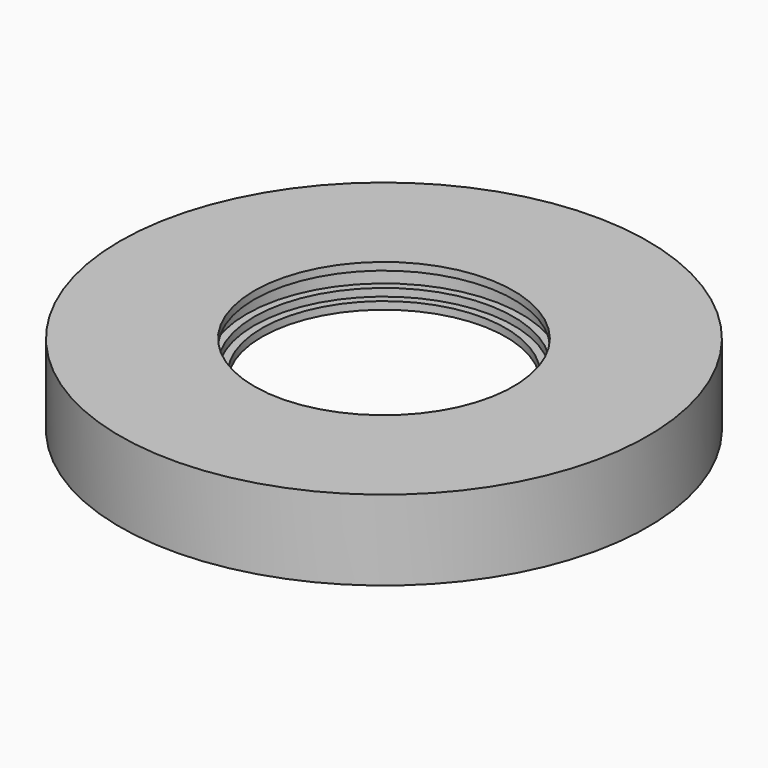
from build123d import *


with BuildPart() as f1:
    # F0 (on Front) → F1 (revolve)
    with BuildSketch(Plane.XZ):
        Polygon((-34, 0), (-32, 0), (-32, 2), (-34, 2), (-34, 4), (-36, 4), (-36, 8), (-34, 8), (-34, 10), (-69.25, 10), (-69.25, -11), (-63.25, -11), (-63.25, 0), (-60.55, 0), (-60.55, -5.5), (-57.55, -5.5), (-57.55, 0), align=None)
    revolve(axis=Axis((0, 0, 5), (0, 0, 1)))


solid = f1.part
